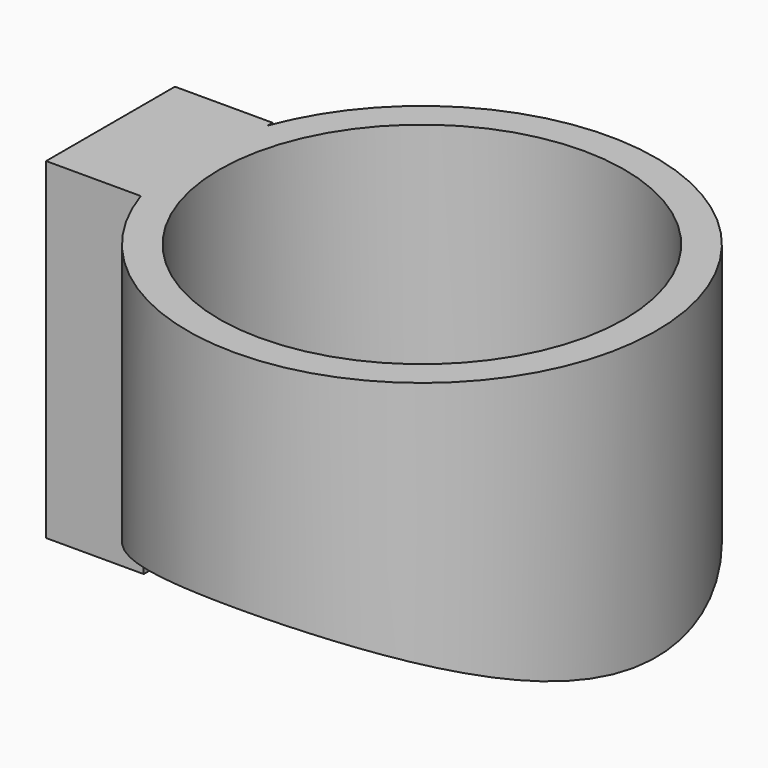
from build123d import *

# Parameters (mm, degrees)
BOX002_W               = 10
BOX002_H               = 16.5
BOX002_DEPTH           = 34
CYLINDER009_R          = 20.75
CYLINDER009_DEPTH      = 150
CYLINDER014_R          = 48
CYLINDER014_DEPTH      = 245
CYLINDER014_ROLL_ANGLE = 90
CYLINDER013_R          = 24
CYLINDER013_DEPTH      = 56


with BuildPart() as obj1:
    # Box002 → Box002 (new body)
    with BuildSketch(Plane(origin=(-32.5, -7.5, -10), x_dir=(1, 0, 0), z_dir=(0, 0, 1))):
        with Locations((5, 8.25)):
            Rectangle(BOX002_W, BOX002_H)
    extrude(amount=BOX002_DEPTH)


with BuildPart() as cylinder009:
    # Cylinder009 → Cylinder009 (new body)
    with BuildSketch(Plane.XY.offset(-32)):
        Circle(CYLINDER009_R)
    extrude(amount=CYLINDER009_DEPTH)


with BuildPart() as cylinder014:
    # Cylinder014 → Cylinder014 (new body)
    with BuildSketch(Plane.XY):
        Circle(CYLINDER014_R)
    extrude(amount=CYLINDER014_DEPTH)


with BuildPart() as cylinder014_1:
    # Cylinder014 roll: moved
    add(cylinder014.part.rotate(Axis((0, 0, 0), (1, 0, 0)), CYLINDER014_ROLL_ANGLE))


with BuildPart() as cylinder014_2:
    # Cylinder014 placement: moved
    add(cylinder014_1.part.moved(Location((0, 79, -47))))


with BuildPart() as fusion009:
    # Cylinder013 → Cylinder013 (new body)
    with BuildSketch(Plane.XY.offset(-32)):
        Circle(CYLINDER013_R)
    extrude(amount=CYLINDER013_DEPTH)

    # Cut008: cut Cylinder014
    add(cylinder014_2.part, mode=Mode.SUBTRACT)

    # Cut009: cut Cylinder009
    add(cylinder009.part, mode=Mode.SUBTRACT)

    # Fusion009: union obj1
    add(obj1.part)


solid = fusion009.part
